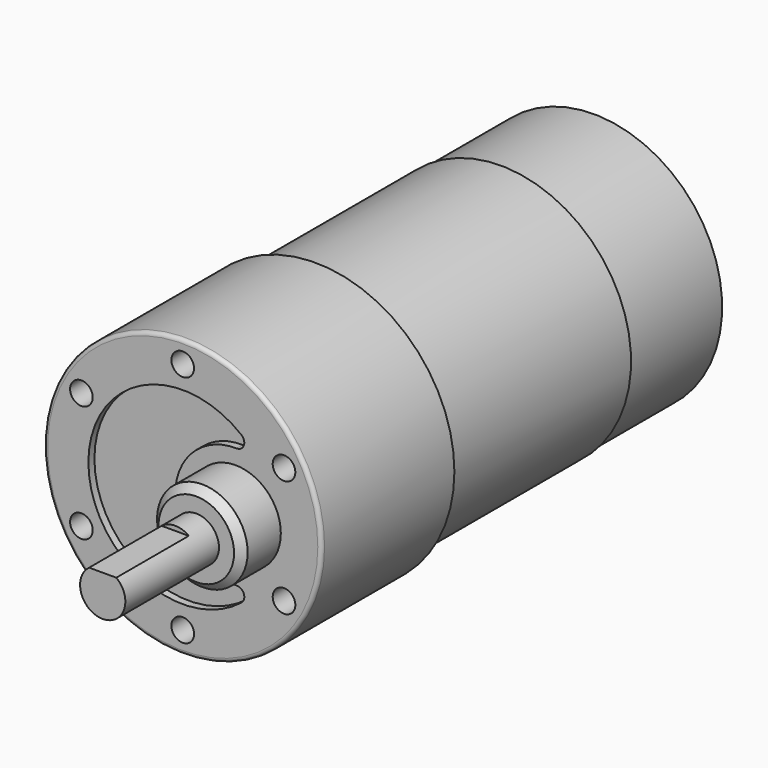
from build123d import *

# Parameters (mm, degrees)
F0_R      = 18.4
F1_DEPTH  = 22
F2_R      = 17.25
F3_DEPTH  = 30.7
F4_R      = 6
F5_DEPTH  = 6.5
F6_R      = 3
F7_DEPTH  = 15.5
F8_SIZE   = 1
F10_DEPTH = 12
F12_D     = 3
F12_DEPTH = 24
F12_TIP   = 0.9012909285
F14_DEPTH = 1
F15_R     = 6.5
F16_DEPTH = 1.5
F17_SIZE  = 1
F18_W     = 3.175
F18_H     = 0.79375
F19_DEPTH = 5.6
F20_SIZE  = 1
F22_DEPTH = 25.4
F23_R     = 0.5
F24_R     = 17
F25_DEPTH = 15.4


with BuildPart() as f1:
    # F0 (on Front) → F1 (new body)
    with BuildSketch(Plane.XZ):
        Circle(F0_R)
    extrude(amount=F1_DEPTH)

    # F2 (on face) → F3 (join)
    with BuildSketch(Plane(origin=(0, 0, 0), x_dir=(-1, 0, 0), z_dir=(0, 1, 0))):
        Circle(F2_R)
    extrude(amount=F3_DEPTH)

    # F4 (on face) → F5 (join)
    with BuildSketch(Plane.XZ.offset(22)):
        with Locations((7, 0)):
            Circle(F4_R)
    extrude(amount=F5_DEPTH)

    # F6 (on face) → F7 (join)
    with BuildSketch(Plane.XZ.offset(28.5)):
        with Locations((7, 0)):
            Circle(F6_R)
    extrude(amount=F7_DEPTH)

    # F8
    f8_edges = [f1.edges().sort_by_distance(p)[0] for p in [
        (1, -28.5, 0),
    ]]
    chamfer(f8_edges, length=F8_SIZE)

    # F9 (on face) → F10 (cut)
    with BuildSketch(Plane.XZ.offset(44)):
        with BuildLine():
            ThreePointArc((8.8, 2.4), (7, 3), (5.2, 2.4))
            Line((5.2, 2.4), (8.8, 2.4))
        make_face()
    extrude(amount=-F10_DEPTH, mode=Mode.SUBTRACT)

    # F12
    with Locations(Plane.XZ.offset(22)):
        with Locations((0, 15.5), (-13.4233937587, 7.75), (-13.4233937587, -7.75), (0, -15.5), (13.4233937587, -7.75), (13.4233937587, 7.75)):
            Hole(F12_D / 2, depth=F12_DEPTH)
            with Locations((0, 0, -(F12_DEPTH + F12_TIP / 2))):  # 118° drill point
                Cone(0, F12_D / 2, F12_TIP, mode=Mode.SUBTRACT)

    # F13 (on face) → F14 (cut)
    with BuildSketch(Plane.XZ.offset(22)):
        with BuildLine():
            ThreePointArc((7.1428571429, 7.9987243881), (8.1017881451, 8.6603638261), (7.7833850932, 9.7810488441))
            ThreePointArc((7.7833850932, 9.7810488441), (-12.5, 0), (7.7833850932, -9.7810488441))
            ThreePointArc((7.7833850932, -9.7810488441), (8.1017881451, -8.6603638261), (7.1428571429, -7.9987243881))
            ThreePointArc((7.1428571429, -7.9987243881), (-1, 0), (7.1428571429, 7.9987243881))
        make_face()
    extrude(amount=-F14_DEPTH, mode=Mode.SUBTRACT)

    # F15 (on face) → F16 (join)
    with BuildSketch(Plane(origin=(0, 30.7, 0), x_dir=(-1, 0, 0), z_dir=(0, 1, 0))):
        Circle(F15_R)
    extrude(amount=F16_DEPTH)

    # F17
    f17_edges = [f1.edges().sort_by_distance(p)[0] for p in [
        (6.5, 32.2, 0),
    ]]
    chamfer(f17_edges, length=F17_SIZE)

    # F18 (on face) → F19 (join)
    with BuildSketch(Plane(origin=(0, 30.7, 0), x_dir=(-1, 0, 0), z_dir=(0, 1, 0))):
        with Locations((0, 11.653125)):
            Rectangle(F18_W, F18_H)
        with Locations((0, -11.653125)):
            Rectangle(F18_W, F18_H)
    extrude(amount=F19_DEPTH)

    # F20
    f20_edges = [f1.edges().sort_by_distance(p)[0] for p in [
        (-1.5875, 36.3, 11.653125),
        (1.5875, 36.3, 11.653125),
        (1.5875, 36.3, -11.653125),
        (-1.5875, 36.3, -11.653125),
    ]]
    chamfer(f20_edges, length=F20_SIZE)

    # F21 (on face) → F22 (cut)
    with BuildSketch(Plane.XY.offset(12.05)):
        with BuildLine():
            Line((0.5, 33.74), (0.5, 35.01))
            ThreePointArc((0.5, 35.01), (0, 35.51), (-0.5, 35.01))
            Line((-0.5, 35.01), (-0.5, 33.74))
            ThreePointArc((-0.5, 33.74), (0, 33.24), (0.5, 33.74))
        make_face()
    extrude(amount=-F22_DEPTH, mode=Mode.SUBTRACT)

    # F23
    f23_edges = [f1.edges().sort_by_distance(p)[0] for p in [
        (-18.4, -22, 0),
    ]]
    fillet(f23_edges, radius=F23_R)

    # F24 (on face) → F25 (join)
    with BuildSketch(Plane(origin=(0, 30.7, 0), x_dir=(-1, 0, 0), z_dir=(0, 1, 0))):
        Circle(F24_R)
    extrude(amount=F25_DEPTH)


solid = f1.part
